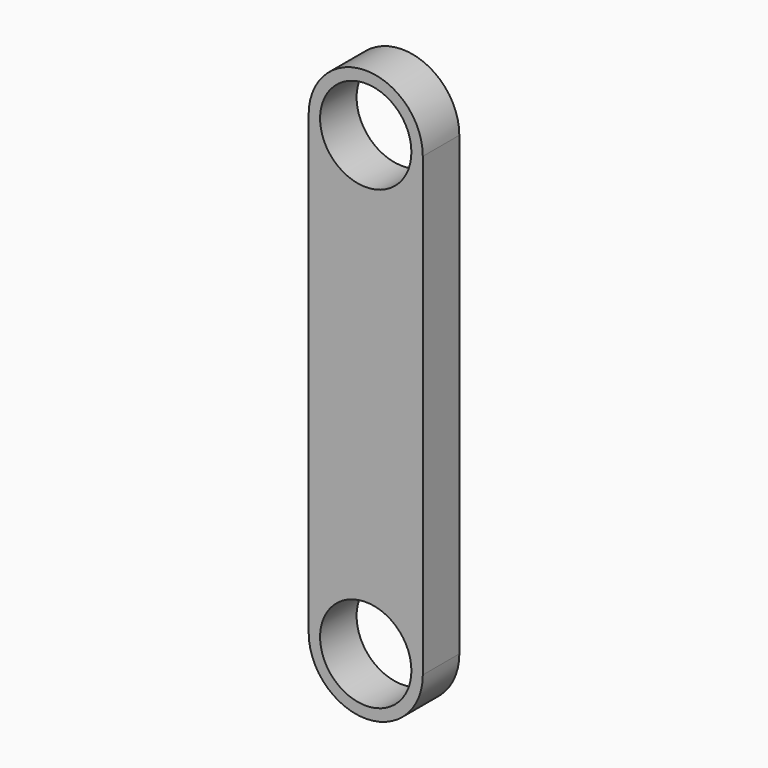
from build123d import *

# Parameters (mm, degrees)
F0_R     = 5.08
F1_DEPTH = 5.08


with BuildPart() as f1:
    # F0 (on Front) → F1 (new body)
    with BuildSketch(Plane.XZ):
        with BuildLine():
            Line((6.35, -27.20163), (6.35, 23.59837))
            ThreePointArc((6.35, 23.59837), (0, 17.24837), (-6.35, 23.59837))
            Line((-6.35, 23.59837), (-6.35, -27.20163))
            ThreePointArc((-6.35, -27.20163), (0, -20.85163), (6.35, -27.20163))
        make_face()
        with BuildLine():
            ThreePointArc((-6.35, 23.59837), (0, 17.24837), (6.35, 23.59837))
            ThreePointArc((6.35, 23.59837), (0, 29.94837), (-6.35, 23.59837))
        make_face()
        with Locations((0, 23.59837)):
            Circle(F0_R, mode=Mode.SUBTRACT)
        with BuildLine():
            ThreePointArc((-6.35, -27.20163), (0, -33.55163), (6.35, -27.20163))
            ThreePointArc((6.35, -27.20163), (0, -20.85163), (-6.35, -27.20163))
        make_face()
        with Locations((0, -27.20163)):
            Circle(F0_R, mode=Mode.SUBTRACT)
    extrude(amount=F1_DEPTH)


solid = f1.part
